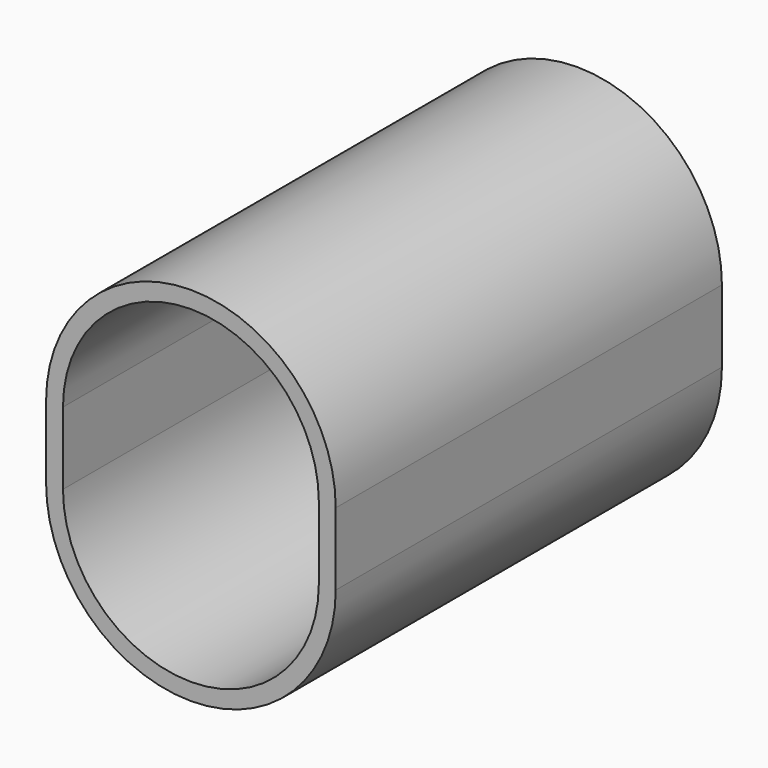
from build123d import *

# Parameters (mm, degrees)
F1_DEPTH = 100
F2_T     = -3.5


with BuildPart() as f1:
    # F0 (on Front) → F1 (new body)
    with BuildSketch(Plane.XZ):
        with BuildLine():
            Line((35.748127, -15), (35.748127, 0))
            ThreePointArc((35.748127, 0), (5.748127, 30), (-24.251873, 0))
            Line((-24.251873, 0), (-24.251873, -15))
            ThreePointArc((-24.251873, -15), (5.748127, -45), (35.748127, -15))
        make_face()
    extrude(amount=F1_DEPTH)

    # F2
    f2_openings = [f1.faces().sort_by_distance(p)[0] for p in [
        (5.748127, -100, -7.5),
    ]]
    offset(amount=F2_T, openings=f2_openings)


solid = f1.part
